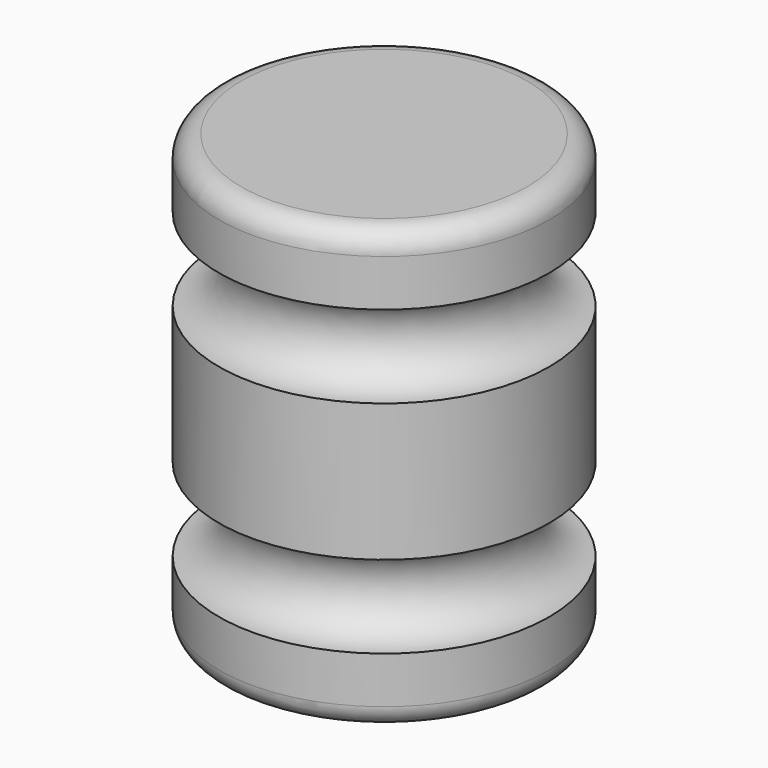
from build123d import *

# Parameters (mm, degrees)
F2_R = 5.08


with BuildPart() as f1:
    # F0 (on Front) → F1 (revolve)
    with BuildSketch(Plane.XZ):
        with BuildLine():
            Line((6.0690259561, 76.8181395888), (-32.0309740439, 76.8181395888))
            Line((-32.0309740439, 76.8181395888), (-32.0309740439, -24.7818604112))
            Line((-32.0309740439, -24.7818604112), (6.0690259561, -24.7818604112))
            Line((6.0690259561, -24.7818604112), (6.0690259561, -8.9068604112))
            ThreePointArc((6.0690259561, -8.9068604112), (-3.4559740439, 0.6181395888), (6.0690259561, 10.1431395888))
            Line((6.0690259561, 10.1431395888), (6.0690259561, 41.8931395888))
            ThreePointArc((6.0690259561, 41.8931395888), (-3.4559740439, 51.4181395888), (6.0690259561, 60.9431395888))
            Line((6.0690259561, 60.9431395888), (6.0690259561, 76.8181395888))
        make_face()
    revolve(axis=Axis((-32.0309740439, 0, 26.0181395888), (0, 0, -1)))

    # F2
    f2_edges = [f1.edges().sort_by_distance(p)[0] for p in [
        (-70.130974, 0, 76.81814),
        (-70.130974, 0, -24.78186),
    ]]
    fillet(f2_edges, radius=F2_R)


solid = f1.part
